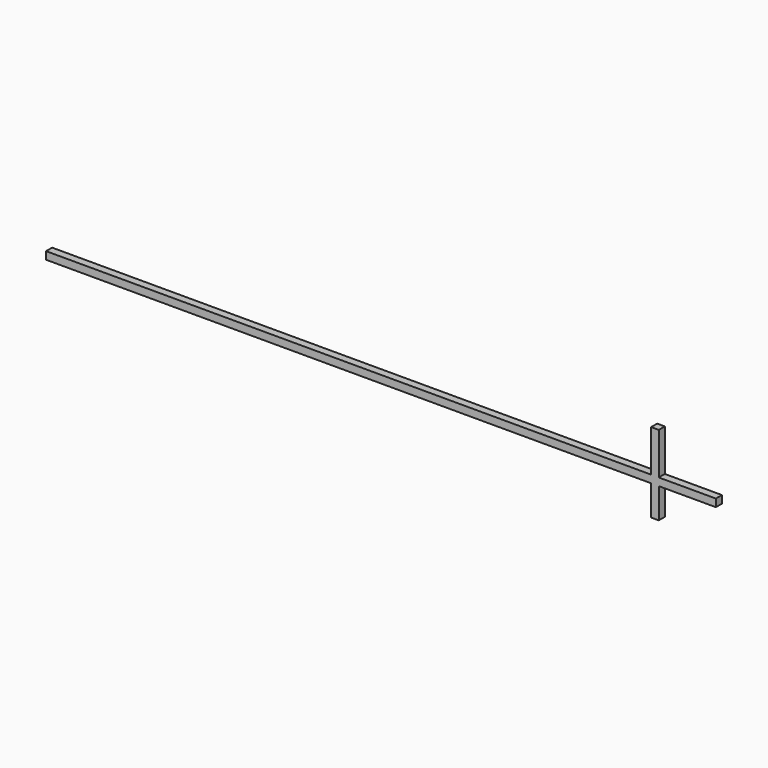
from build123d import *

# Parameters (mm, degrees)
F2_W     = 5
F2_H     = 5
F4_DEPTH = 440
F7_W     = 5
F7_H     = 5
F8_DEPTH = 52.324


with BuildPart() as f4:
    # F2 (on line) → F4 (new body, through all)
    with BuildSketch(Plane.YZ.offset(205.9430314518)):
        with Locations((0, 12.1276704594)):
            Rectangle(F2_W, F2_H)
    extrude(amount=-F4_DEPTH)

    # F7 (on line) → F8 (join)
    with BuildSketch(Plane.XY.offset(42.1276704594)):
        with Locations((165.9430314518, 0)):
            Rectangle(F7_W, F7_H)
    extrude(amount=-F8_DEPTH)


solid = f4.part
